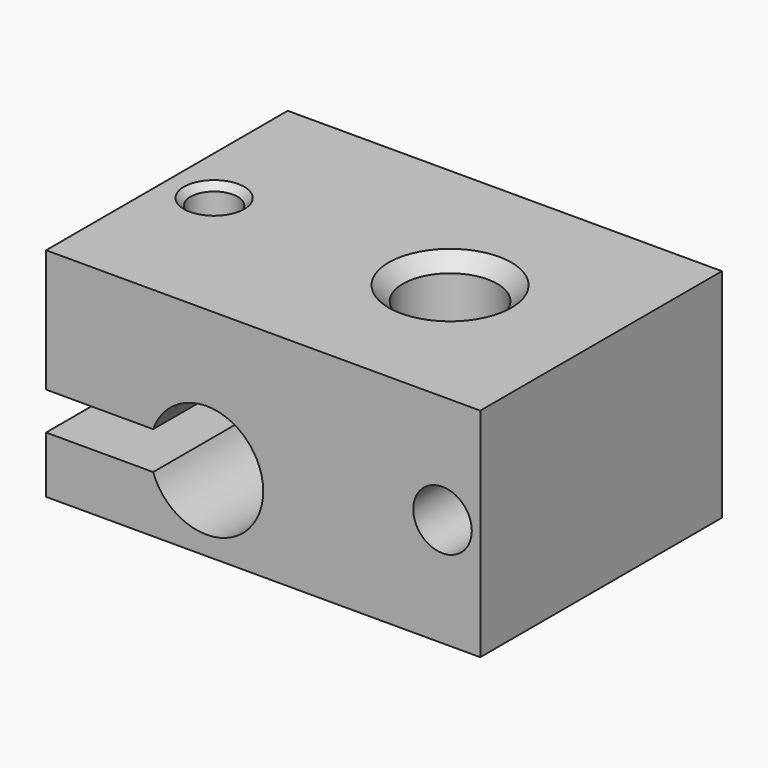
from build123d import *

# Parameters (mm, degrees)
F0_W           = 23
F0_H           = 16
F1_DEPTH       = 11.5
F3_D           = 5
F3_CSINK_D     = 6.5
F3_CSINK_ANGLE = 90
F4_D           = 2.5
F4_CSINK_D     = 3.2
F4_CSINK_ANGLE = 90
F5_R           = 1.55
F6_DEPTH       = 16.001
F8_D           = 2.5
F8_DEPTH       = 5.75
F8_CSINK_D     = 3.2
F8_CSINK_ANGLE = 90
F8_TIP         = 0.7510757738


with BuildPart() as f1:
    # F0 (on Top) → F1 (new body)
    with BuildSketch(Plane.XY):
        Rectangle(F0_W, F0_H)
    extrude(amount=F1_DEPTH)

    # F3 (through all)
    with Locations(Plane.XY.offset(11.5)):
        with Locations((3.5, 0)):
            CounterSinkHole(F3_D / 2, F3_CSINK_D / 2, counter_sink_angle=F3_CSINK_ANGLE)

    # F4 (through all)
    with Locations(Plane.XY.offset(11.5)):
        with Locations((-9, 0)):
            CounterSinkHole(F4_D / 2, F4_CSINK_D / 2, counter_sink_angle=F4_CSINK_ANGLE)

    # F5 (on face) → F6 (cut, through all)
    with BuildSketch(Plane.XZ.offset(8)):
        with BuildLine():
            Line((-4.589129705, 5), (-5.8284271247, 5))
            ThreePointArc((-5.8284271247, 5), (-6, 4), (-5.8284271247, 3))
            Line((-5.8284271247, 3), (-4.589129705, 3))
            Line((-4.589129705, 3), (-4.589129705, 5))
        make_face()
        with BuildLine():
            ThreePointArc((-5.8284271247, 3), (-2.4926940638, 1.043204321), (0, 4))
            ThreePointArc((0, 4), (-2.4926940638, 6.956795679), (-5.8284271247, 5))
            Line((-5.8284271247, 5), (-4.589129705, 5))
            Line((-4.589129705, 5), (-4.589129705, 3))
            Line((-4.589129705, 3), (-5.8284271247, 3))
        make_face()
        with Locations((9.5, 5.75)):
            Circle(F5_R)
        with BuildLine():
            ThreePointArc((-5.8284271247, 3), (-6, 4), (-5.8284271247, 5))
            Line((-5.8284271247, 5), (-11.5, 5))
            Line((-11.5, 5), (-11.5, 3))
            Line((-11.5, 3), (-5.8284271247, 3))
        make_face()
    extrude(amount=-F6_DEPTH, mode=Mode.SUBTRACT)

    # F8
    with Locations(Plane(origin=(0, 0, 0), x_dir=(1, 0, 0), z_dir=(0, 0, -1))):
        with Locations((9.7161801532, 0)):
            CounterSinkHole(F8_D / 2, F8_CSINK_D / 2, depth=F8_DEPTH, counter_sink_angle=F8_CSINK_ANGLE)
            with Locations((0, 0, -(F8_DEPTH + F8_TIP / 2))):  # 118° drill point
                Cone(0, F8_D / 2, F8_TIP, mode=Mode.SUBTRACT)


solid = f1.part
